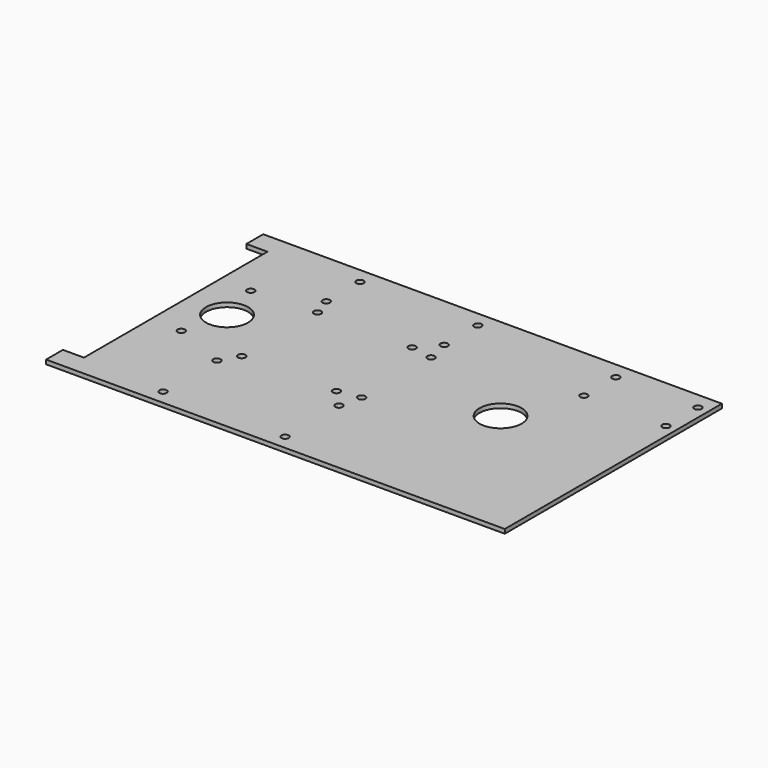
from build123d import *

# Parameters (mm, degrees)
CYLINDER007_R     = 1.75
CYLINDER007_DEPTH = 5
CYLINDER006_R     = 1.75
CYLINDER006_DEPTH = 5
CYLINDER005_R     = 1.75
CYLINDER005_DEPTH = 5
CYLINDER004_R     = 1.75
CYLINDER004_DEPTH = 5
CUBE002_W         = 85
CUBE002_H         = 27
CUBE002_DEPTH     = 17
CYLINDER011_R     = 1.75
CYLINDER011_DEPTH = 5
CYLINDER010_R     = 1.75
CYLINDER010_DEPTH = 5
CYLINDER009_R     = 1.75
CYLINDER009_DEPTH = 5
CYLINDER008_R     = 1.75
CYLINDER008_DEPTH = 5
CUBE003_W         = 95.25
CUBE003_H         = 50.8
CUBE003_DEPTH     = 20.32
CYLINDER015_R     = 1.75
CYLINDER015_DEPTH = 5
CYLINDER014_R     = 1.75
CYLINDER014_DEPTH = 5
CYLINDER013_R     = 1.75
CYLINDER013_DEPTH = 5
CYLINDER012_R     = 1.75
CYLINDER012_DEPTH = 5
CUBE004_W         = 65
CUBE004_H         = 38
CUBE004_DEPTH     = 10
CUBE005_W         = 10
CUBE005_H         = 109
CUBE005_DEPTH     = 10
CYLINDER019_R     = 1.75
CYLINDER019_DEPTH = 5
CYLINDER018_R     = 1.75
CYLINDER018_DEPTH = 5
CYLINDER017_R     = 1.75
CYLINDER017_DEPTH = 5
CYLINDER016_R     = 1.75
CYLINDER016_DEPTH = 5
CUBE006_W         = 55
CUBE006_H         = 55
CUBE006_DEPTH     = 10
CYLINDER020_R     = 10
CYLINDER020_DEPTH = 20
CYLINDER021_R     = 10
CYLINDER021_DEPTH = 20
CYLINDER003_R     = 1.75
CYLINDER003_DEPTH = 5
CYLINDER002_R     = 1.75
CYLINDER002_DEPTH = 5
CYLINDER001_R     = 1.75
CYLINDER001_DEPTH = 5
CYLINDER_R        = 1.75
CYLINDER_DEPTH    = 5
CUBE001_W         = 45
CUBE001_H         = 25
CUBE001_DEPTH     = 12
CUBE_W            = 218
CUBE_H            = 129
CUBE_DEPTH        = 2


with BuildPart() as cylinder007:
    # cylinder007 → cylinder007 (new body)
    with BuildSketch(Plane(origin=(28, 10, -5), x_dir=(1, 0, 0), z_dir=(0, 0, 1))):
        Circle(CYLINDER007_R)
    extrude(amount=CYLINDER007_DEPTH)


with BuildPart() as group005:
    # cylinder006 → cylinder006 (new body)
    with BuildSketch(Plane(origin=(28, -10, -5), x_dir=(1, 0, 0), z_dir=(0, 0, 1))):
        Circle(CYLINDER006_R)
    extrude(amount=CYLINDER006_DEPTH)

    # Group005: union cylinder007
    add(cylinder007.part)


with BuildPart() as cylinder005:
    # cylinder005 → cylinder005 (new body)
    with BuildSketch(Plane(origin=(-28, 10, -5), x_dir=(1, 0, 0), z_dir=(0, 0, 1))):
        Circle(CYLINDER005_R)
    extrude(amount=CYLINDER005_DEPTH)


with BuildPart() as group006:
    # cylinder004 → cylinder004 (new body)
    with BuildSketch(Plane(origin=(-28, -10, -5), x_dir=(1, 0, 0), z_dir=(0, 0, 1))):
        Circle(CYLINDER004_R)
    extrude(amount=CYLINDER004_DEPTH)

    # Group004: union cylinder005
    add(cylinder005.part)

    # Group006: union Group005
    add(group005.part)


with BuildPart() as group007:
    # cube002 → cube002 (new body)
    with BuildSketch(Plane(origin=(-42.5, -13.5, 0), x_dir=(1, 0, 0), z_dir=(0, 0, 1))):
        with Locations((42.5, 13.5)):
            Rectangle(CUBE002_W, CUBE002_H)
    extrude(amount=CUBE002_DEPTH)

    # Group007: union Group006
    add(group006.part)


with BuildPart() as group007_1:
    # Group007 placement: moved
    add(group007.part.moved(Location((80, 111.5, 0.1))))


with BuildPart() as cylinder011:
    # cylinder011 → cylinder011 (new body)
    with BuildSketch(Plane(origin=(42.85, 20.625, -5), x_dir=(1, 0, 0), z_dir=(0, 0, 1))):
        Circle(CYLINDER011_R)
    extrude(amount=CYLINDER011_DEPTH)


with BuildPart() as group009:
    # cylinder010 → cylinder010 (new body)
    with BuildSketch(Plane(origin=(42.85, -20.625, -5), x_dir=(1, 0, 0), z_dir=(0, 0, 1))):
        Circle(CYLINDER010_R)
    extrude(amount=CYLINDER010_DEPTH)

    # Group009: union cylinder011
    add(cylinder011.part)


with BuildPart() as cylinder009:
    # cylinder009 → cylinder009 (new body)
    with BuildSketch(Plane(origin=(-42.85, 20.625, -5), x_dir=(1, 0, 0), z_dir=(0, 0, 1))):
        Circle(CYLINDER009_R)
    extrude(amount=CYLINDER009_DEPTH)


with BuildPart() as group010:
    # cylinder008 → cylinder008 (new body)
    with BuildSketch(Plane(origin=(-42.85, -20.625, -5), x_dir=(1, 0, 0), z_dir=(0, 0, 1))):
        Circle(CYLINDER008_R)
    extrude(amount=CYLINDER008_DEPTH)

    # Group008: union cylinder009
    add(cylinder009.part)

    # Group010: union Group009
    add(group009.part)


with BuildPart() as group011:
    # cube003 → cube003 (new body)
    with BuildSketch(Plane(origin=(-47.625, -25.4, 0), x_dir=(1, 0, 0), z_dir=(0, 0, 1))):
        with Locations((47.625, 25.4)):
            Rectangle(CUBE003_W, CUBE003_H)
    extrude(amount=CUBE003_DEPTH)

    # Group011: union Group010
    add(group010.part)


with BuildPart() as group011_1:
    # Group011 placement: moved
    add(group011.part.moved(Location((67.625, 70, 0.1))))


with BuildPart() as cylinder015:
    # cylinder015 → cylinder015 (new body)
    with BuildSketch(Plane(origin=(29, 16, -5), x_dir=(1, 0, 0), z_dir=(0, 0, 1))):
        Circle(CYLINDER015_R)
    extrude(amount=CYLINDER015_DEPTH)


with BuildPart() as group013:
    # cylinder014 → cylinder014 (new body)
    with BuildSketch(Plane(origin=(29, -16, -5), x_dir=(1, 0, 0), z_dir=(0, 0, 1))):
        Circle(CYLINDER014_R)
    extrude(amount=CYLINDER014_DEPTH)

    # Group013: union cylinder015
    add(cylinder015.part)


with BuildPart() as cylinder013:
    # cylinder013 → cylinder013 (new body)
    with BuildSketch(Plane(origin=(-29, 16, -5), x_dir=(1, 0, 0), z_dir=(0, 0, 1))):
        Circle(CYLINDER013_R)
    extrude(amount=CYLINDER013_DEPTH)


with BuildPart() as group014:
    # cylinder012 → cylinder012 (new body)
    with BuildSketch(Plane(origin=(-29, -16, -5), x_dir=(1, 0, 0), z_dir=(0, 0, 1))):
        Circle(CYLINDER012_R)
    extrude(amount=CYLINDER012_DEPTH)

    # Group012: union cylinder013
    add(cylinder013.part)

    # Group014: union Group013
    add(group013.part)


with BuildPart() as group015:
    # cube004 → cube004 (new body)
    with BuildSketch(Plane(origin=(-32.5, -19, 0), x_dir=(1, 0, 0), z_dir=(0, 0, 1))):
        with Locations((32.5, 19)):
            Rectangle(CUBE004_W, CUBE004_H)
    extrude(amount=CUBE004_DEPTH)

    # Group015: union Group014
    add(group014.part)


with BuildPart() as group015_1:
    # Group015 placement: moved
    add(group015.part.moved(Location((79, 23, 0.1))))


with BuildPart() as cube005:
    # cube005 → cube005 (new body)
    with BuildSketch(Plane(origin=(0, 10, -5), x_dir=(1, 0, 0), z_dir=(0, 0, 1))):
        with Locations((5, 54.5)):
            Rectangle(CUBE005_W, CUBE005_H)
    extrude(amount=CUBE005_DEPTH)


with BuildPart() as cylinder019:
    # cylinder019 → cylinder019 (new body)
    with BuildSketch(Plane(origin=(22.5, 22.5, -5), x_dir=(1, 0, 0), z_dir=(0, 0, 1))):
        Circle(CYLINDER019_R)
    extrude(amount=CYLINDER019_DEPTH)


with BuildPart() as group017:
    # cylinder018 → cylinder018 (new body)
    with BuildSketch(Plane(origin=(22.5, -22.5, -5), x_dir=(1, 0, 0), z_dir=(0, 0, 1))):
        Circle(CYLINDER018_R)
    extrude(amount=CYLINDER018_DEPTH)

    # Group017: union cylinder019
    add(cylinder019.part)


with BuildPart() as cylinder017:
    # cylinder017 → cylinder017 (new body)
    with BuildSketch(Plane(origin=(-22.5, 22.5, -5), x_dir=(1, 0, 0), z_dir=(0, 0, 1))):
        Circle(CYLINDER017_R)
    extrude(amount=CYLINDER017_DEPTH)


with BuildPart() as group018:
    # cylinder016 → cylinder016 (new body)
    with BuildSketch(Plane(origin=(-22.5, -22.5, -5), x_dir=(1, 0, 0), z_dir=(0, 0, 1))):
        Circle(CYLINDER016_R)
    extrude(amount=CYLINDER016_DEPTH)

    # Group016: union cylinder017
    add(cylinder017.part)

    # Group018: union Group017
    add(group017.part)


with BuildPart() as group019:
    # cube006 → cube006 (new body)
    with BuildSketch(Plane(origin=(-27.5, -27.5, 0), x_dir=(1, 0, 0), z_dir=(0, 0, 1))):
        with Locations((27.5, 27.5)):
            Rectangle(CUBE006_W, CUBE006_H)
    extrude(amount=CUBE006_DEPTH)

    # Group019: union Group018
    add(group018.part)


with BuildPart() as group019_1:
    # Group019 placement: moved
    add(group019.part.moved(Location((77.5, 70, 0.1))))


with BuildPart() as cylinder020:
    # cylinder020 → cylinder020 (new body)
    with BuildSketch(Plane(origin=(160, 70, -5), x_dir=(1, 0, 0), z_dir=(0, 0, 1))):
        Circle(CYLINDER020_R)
    extrude(amount=CYLINDER020_DEPTH)


with BuildPart() as cylinder021:
    # cylinder021 → cylinder021 (new body)
    with BuildSketch(Plane(origin=(30, 70, -5), x_dir=(1, 0, 0), z_dir=(0, 0, 1))):
        Circle(CYLINDER021_R)
    extrude(amount=CYLINDER021_DEPTH)


with BuildPart() as cylinder003:
    # cylinder003 → cylinder003 (new body)
    with BuildSketch(Plane(origin=(19.5, 9.5, -5), x_dir=(1, 0, 0), z_dir=(0, 0, 1))):
        Circle(CYLINDER003_R)
    extrude(amount=CYLINDER003_DEPTH)


with BuildPart() as group001:
    # cylinder002 → cylinder002 (new body)
    with BuildSketch(Plane(origin=(19.5, -9.5, -5), x_dir=(1, 0, 0), z_dir=(0, 0, 1))):
        Circle(CYLINDER002_R)
    extrude(amount=CYLINDER002_DEPTH)

    # Group001: union cylinder003
    add(cylinder003.part)


with BuildPart() as cylinder001:
    # cylinder001 → cylinder001 (new body)
    with BuildSketch(Plane(origin=(-19.5, 9.5, -5), x_dir=(1, 0, 0), z_dir=(0, 0, 1))):
        Circle(CYLINDER001_R)
    extrude(amount=CYLINDER001_DEPTH)


with BuildPart() as group002:
    # cylinder → cylinder (new body)
    with BuildSketch(Plane(origin=(-19.5, -9.5, -5), x_dir=(1, 0, 0), z_dir=(0, 0, 1))):
        Circle(CYLINDER_R)
    extrude(amount=CYLINDER_DEPTH)

    # Group: union cylinder001
    add(cylinder001.part)

    # Group002: union Group001
    add(group001.part)


with BuildPart() as union:
    # cube001 → cube001 (new body)
    with BuildSketch(Plane(origin=(-22.5, -12.5, 0), x_dir=(1, 0, 0), z_dir=(0, 0, 1))):
        with Locations((22.5, 12.5)):
            Rectangle(CUBE001_W, CUBE001_H)
    extrude(amount=CUBE001_DEPTH)

    # Group003: union Group002
    add(group002.part)


with BuildPart() as union_1:
    # Group003 placement: moved
    add(union.part.moved(Location((193.5, 111.5, 0.1))))

    # union: union Group007, Group011, Group015, cube005, Group019, cylinder020, cylinder021
    add(group007_1.part)
    add(group011_1.part)
    add(group015_1.part)
    add(cube005.part)
    add(group019_1.part)
    add(cylinder020.part)
    add(cylinder021.part)


with BuildPart() as difference:
    # cube → cube (new body)
    with BuildSketch(Plane.XY.offset(-2)):
        with Locations((109, 64.5)):
            Rectangle(CUBE_W, CUBE_H)
    extrude(amount=CUBE_DEPTH)

    # difference: cut union
    add(union_1.part, mode=Mode.SUBTRACT)


solid = difference.part
